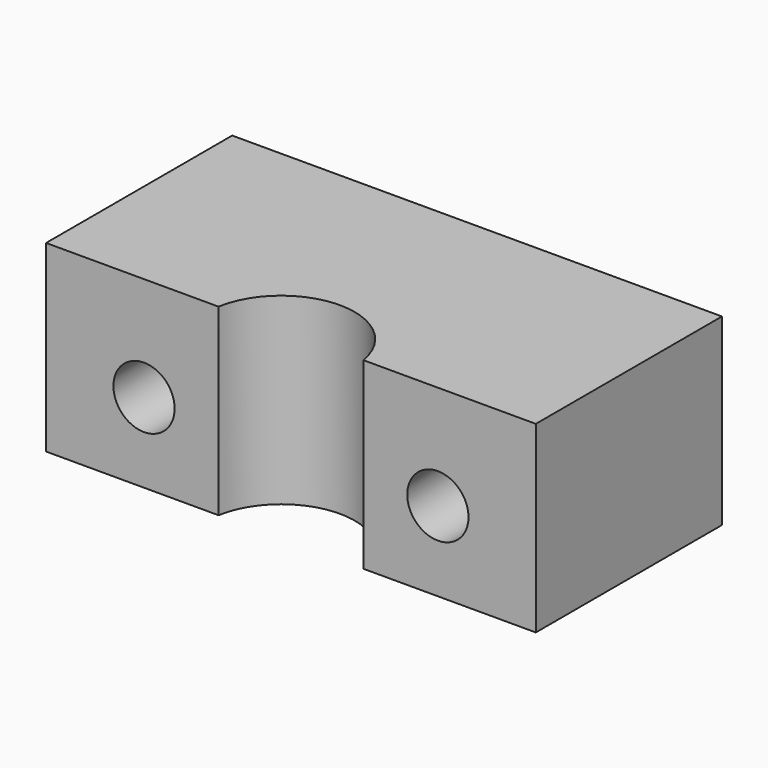
from build123d import *

# Parameters (mm, degrees)
F1_DEPTH = 15
F3_D     = 5


with BuildPart() as f1:
    # F0 (on Top) → F1 (new body)
    with BuildSketch(Plane.XY):
        with BuildLine():
            Line((40, 0), (0, 0))
            Line((0, 0), (0, -19))
            Line((0, -19), (14.08392, -19))
            ThreePointArc((14.08392, -19), (20, -14), (25.91608, -19))
            Line((25.91608, -19), (40, -19))
            Line((40, -19), (40, 0))
        make_face()
    extrude(amount=F1_DEPTH)

    # F3 (through all)
    with Locations(Plane(origin=(0, 0, 0), x_dir=(-1, 0, 0), z_dir=(0, 1, 0))):
        with Locations((-8, 6.5), (-32, 6.5)):
            Hole(F3_D / 2)


solid = f1.part
